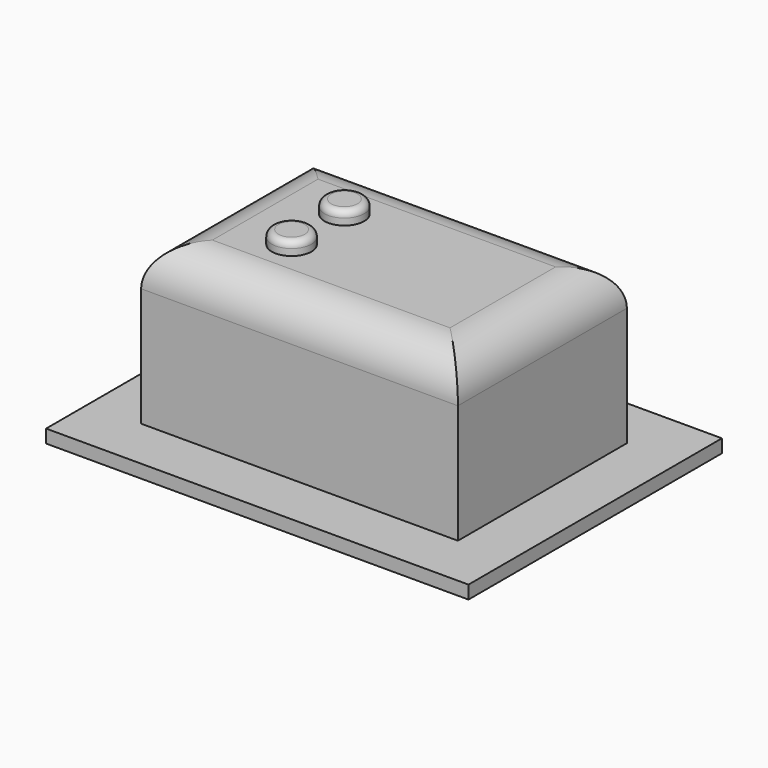
from build123d import *

# Parameters (mm, degrees)
SKETCH_W     = 16
SKETCH_H     = 12
PAD_DEPTH    = 0.5
SKETCH001_W  = 12
SKETCH001_H  = 8
PAD001_DEPTH = 6
FILLET_R     = 1.5
SKETCH002_R  = 0.75
PAD002_DEPTH = 0.5
FILLET001_R  = 0.25
SKETCH004_R  = 0.75
PAD004_DEPTH = 0.5
FILLET003_R  = 0.25


with BuildPart() as pad:
    # Sketch → Pad (new body)
    with BuildSketch(Plane.XY):
        with Locations((8, 6)):
            Rectangle(SKETCH_W, SKETCH_H)
    extrude(amount=PAD_DEPTH)


with BuildPart() as fillet_body:
    # Sketch001 → Pad001 (new body)
    with BuildSketch(Plane.XY.offset(0.5)):
        with Locations((8, 6)):
            Rectangle(SKETCH001_W, SKETCH001_H)
    extrude(amount=PAD001_DEPTH)

    # Fillet
    fillet_edges = [fillet_body.edges().sort_by_distance(p)[0] for p in [
        (8, 2, 6.5),
        (14, 6, 6.5),
        (8, 10, 6.5),
        (2, 6, 6.5),
    ]]
    fillet(fillet_edges, radius=FILLET_R)


with BuildPart() as fillet001:
    # Sketch002 → Pad002 (new body)
    with BuildSketch(Plane.XY.offset(6.5)):
        with Locations((5.5, 4.75)):
            Circle(SKETCH002_R)
    extrude(amount=PAD002_DEPTH)

    # Fillet001
    fillet001_edges = [fillet001.edges().sort_by_distance(p)[0] for p in [
        (4.75, 4.75, 7),
    ]]
    fillet(fillet001_edges, radius=FILLET001_R)


with BuildPart() as fillet003:
    # Sketch004 → Pad004 (new body)
    with BuildSketch(Plane.XY.offset(6.5)):
        with Locations((5.5, 7.25)):
            Circle(SKETCH004_R)
    extrude(amount=PAD004_DEPTH)

    # Fillet003
    fillet003_edges = [fillet003.edges().sort_by_distance(p)[0] for p in [
        (4.75, 7.25, 7),
    ]]
    fillet(fillet003_edges, radius=FILLET003_R)


solid = Compound([pad.part, fillet_body.part, fillet001.part, fillet003.part])
